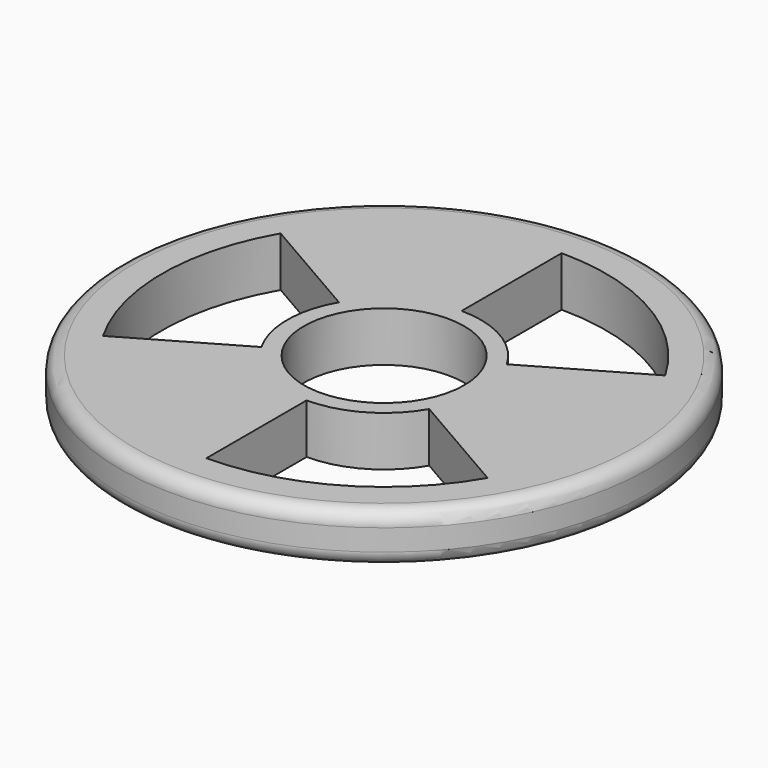
from build123d import *

# Parameters (mm, degrees)
F0_R     = 37.06963
F0_R_2   = 11.25
F1_DEPTH = 7
F2_R     = 2


with BuildPart() as f1:
    # F0 (on Top) → F1 (new body)
    with BuildSketch(Plane.XY):
        with Locations((-44.385914, -7.321505)):
            Circle(F0_R)
        with BuildLine():
            ThreePointArc((-17.383998, 8.268058), (-14.26919, 0.748247), (-13.206787, -7.321505))
            ThreePointArc((-13.206787, -7.321505), (-14.26919, -15.391257), (-17.383998, -22.911069))
            ThreePointArc((-17.383998, -22.911069), (-28.79635, -34.323421), (-44.385914, -38.500632))
            ThreePointArc((-44.385914, -38.500632), (-59.975477, -34.323421), (-71.38783, -22.911069))
            ThreePointArc((-71.38783, -22.911069), (-75.565041, -7.321505), (-71.38783, 8.268058))
            ThreePointArc((-71.38783, 8.268058), (-59.975477, 19.680411), (-44.385914, 23.857622))
            ThreePointArc((-44.385914, 23.857622), (-28.79635, 19.680411), (-17.383998, 8.268058))
        make_face(mode=Mode.SUBTRACT)
        with BuildLine():
            ThreePointArc((-30.778047, -7.321505), (-31.241724, -3.79953), (-32.601156, -0.517572))
            ThreePointArc((-32.601156, -0.517572), (-37.581981, 4.463253), (-44.385914, 6.286361))
            ThreePointArc((-44.385914, 6.286361), (-51.189847, 4.463253), (-56.170672, -0.517572))
            ThreePointArc((-56.170672, -0.517572), (-57.99378, -7.321505), (-56.170672, -14.125438))
            ThreePointArc((-56.170672, -14.125438), (-51.189847, -19.106263), (-44.385914, -20.929372))
            ThreePointArc((-44.385914, -20.929372), (-37.581981, -19.106263), (-32.601156, -14.125438))
            ThreePointArc((-32.601156, -14.125438), (-31.241724, -10.84348), (-30.778047, -7.321505))
        make_face()
        with Locations((-44.385914, -7.321505)):
            Circle(F0_R_2, mode=Mode.SUBTRACT)
        with BuildLine():
            ThreePointArc((-71.38783, -22.911069), (-59.975477, -34.323421), (-44.385914, -38.500632))
            Line((-44.385914, -38.500632), (-44.385914, -20.929372))
            ThreePointArc((-44.385914, -20.929372), (-51.189847, -19.106263), (-56.170672, -14.125438))
            Line((-56.170672, -14.125438), (-71.38783, -22.911069))
        make_face()
        with BuildLine():
            Line((-44.385914, 6.286361), (-44.385914, 23.857622))
            ThreePointArc((-44.385914, 23.857622), (-59.975477, 19.680411), (-71.38783, 8.268058))
            Line((-71.38783, 8.268058), (-56.170672, -0.517572))
            ThreePointArc((-56.170672, -0.517572), (-51.189847, 4.463253), (-44.385914, 6.286361))
        make_face()
        with BuildLine():
            ThreePointArc((-17.383998, -22.911069), (-14.26919, -15.391257), (-13.206787, -7.321505))
            ThreePointArc((-13.206787, -7.321505), (-14.26919, 0.748247), (-17.383998, 8.268058))
            Line((-17.383998, 8.268058), (-32.601156, -0.517572))
            ThreePointArc((-32.601156, -0.517572), (-31.241724, -3.79953), (-30.778047, -7.321505))
            ThreePointArc((-30.778047, -7.321505), (-31.241724, -10.84348), (-32.601156, -14.125438))
            Line((-32.601156, -14.125438), (-17.383998, -22.911069))
        make_face()
    extrude(amount=F1_DEPTH)

    # F2
    f2_edges = [f1.edges().sort_by_distance(p)[0] for p in [
        (-81.455544, -7.321505, 0),
        (-81.455544, -7.321505, 7),
    ]]
    fillet(f2_edges, radius=F2_R)


solid = f1.part
